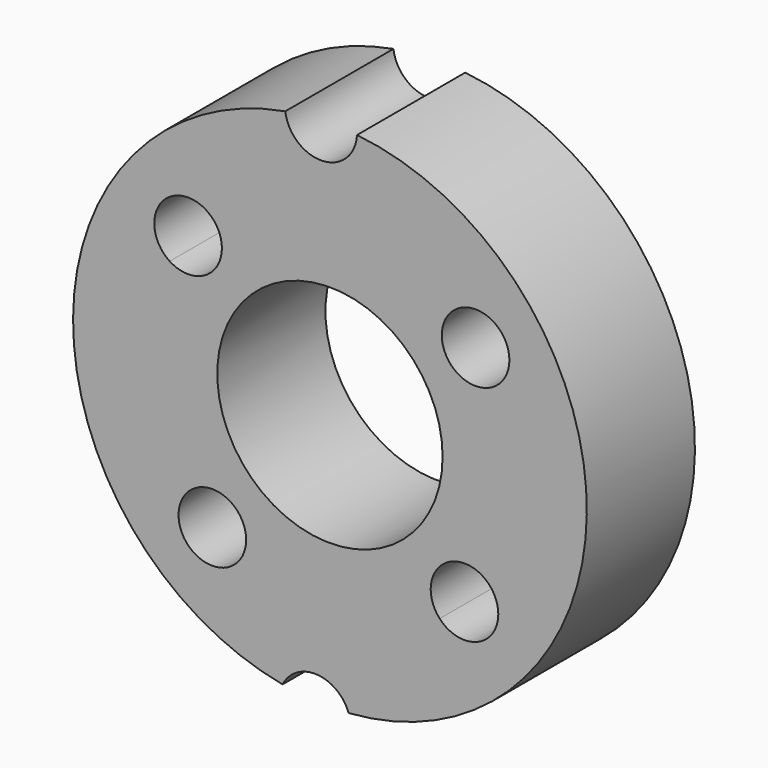
from build123d import *

# Parameters (mm, degrees)
F0_R     = 25
F1_DEPTH = 30


with BuildPart() as f1:
    # F0 (on Front) → F1 (new body)
    with BuildSketch(Plane.XZ):
        with BuildLine():
            ThreePointArc((6.013727, 56.681876), (-1.697592, 49.132529), (-9.911579, 56.131636))
            ThreePointArc((-9.911579, 56.131636), (-56.999178, 0.306066), (-10.513806, -56.021959))
            ThreePointArc((-10.513806, -56.021959), (-2.904869, -51.604496), (4.160243, -56.847976))
            ThreePointArc((4.160243, -56.847976), (56.992405, -0.930456), (6.013727, 56.681876))
        make_face()
        with BuildLine():
            ThreePointArc((-31.303913, -25.021114), (-39.88559, -3.889839), (-35.548437, 18.501345))
            ThreePointArc((-35.548437, 18.501345), (-37.369771, 29.442548), (-26.306144, 30.232068))
            ThreePointArc((-26.306144, 30.232068), (0.693447, 40.068819), (27.336494, 29.303707))
            ThreePointArc((27.336494, 29.303707), (35.391122, 30.538383), (39.817886, 23.696949))
            ThreePointArc((39.817886, 23.696949), (38.841724, 19.99701), (36.167341, 17.260203))
            ThreePointArc((36.167341, 17.260203), (40.027152, -1.95403), (34.314168, -20.700943))
            ThreePointArc((34.314168, -20.700943), (36.552543, -23.354695), (37.356058, -26.732133))
            ThreePointArc((37.356058, -26.732133), (32.592054, -33.715279), (24.352237, -31.827028))
            ThreePointArc((24.352237, -31.827028), (2.632751, -39.988245), (-19.969254, -34.745072))
            ThreePointArc((-19.969254, -34.745072), (-30.976954, -36.108056), (-31.303913, -25.021114))
        make_face(mode=Mode.SUBTRACT)
        with BuildLine():
            ThreePointArc((-23.978561, 24.801035), (-27.892063, 18.214152), (-35.548437, 18.501345))
            ThreePointArc((-35.548437, 18.501345), (-39.88559, -3.889839), (-31.303913, -25.021114))
            ThreePointArc((-31.303913, -25.021114), (-23.163338, -23.511848), (-18.593548, -30.415751))
            ThreePointArc((-18.593548, -30.415751), (-18.945744, -32.687071), (-19.969254, -34.745072))
            ThreePointArc((-19.969254, -34.745072), (2.632751, -39.988245), (24.352237, -31.827028))
            ThreePointArc((24.352237, -31.827028), (24.268499, -21.729216), (34.314168, -20.700943))
            ThreePointArc((34.314168, -20.700943), (40.027152, -1.95403), (36.167341, 17.260203))
            ThreePointArc((36.167341, 17.260203), (26.269596, 19.262066), (27.336494, 29.303707))
            ThreePointArc((27.336494, 29.303707), (0.693447, 40.068819), (-26.306144, 30.232068))
            ThreePointArc((-26.306144, 30.232068), (-24.584972, 27.755429), (-23.978561, 24.801035))
        make_face()
        Circle(F0_R, mode=Mode.SUBTRACT)
    extrude(amount=F1_DEPTH)


solid = f1.part
